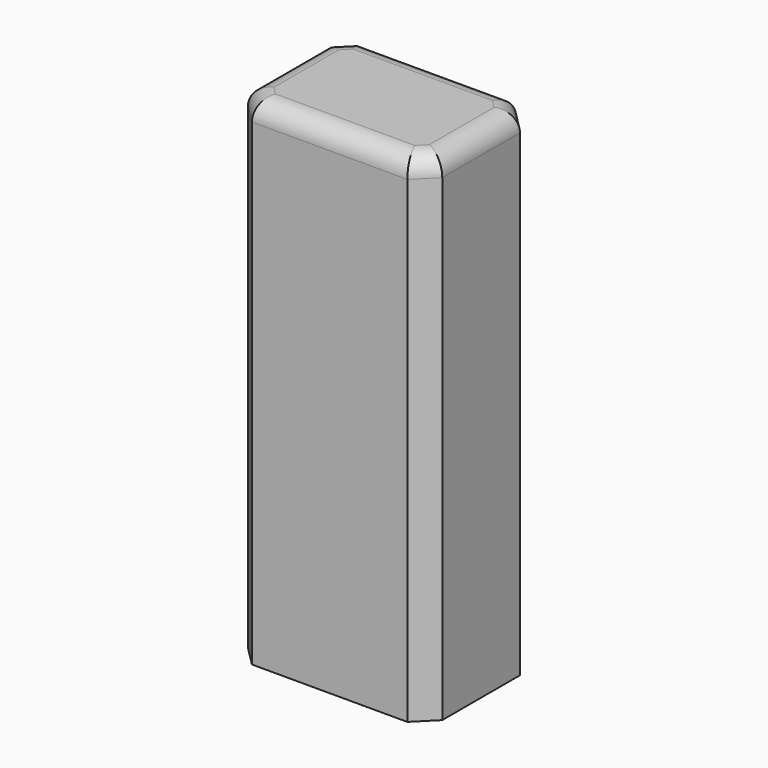
from build123d import *

# Parameters (mm, degrees)
F0_W     = 50
F0_H     = 127.9575609275
F1_DEPTH = 10
F2_R     = 3
F3_DEPTH = 8
F4_DEPTH = 25
F5_SIZE  = 5
F6_SIZE  = 5
F7_SIZE  = 5
F8_SIZE  = 5
F9_R     = 5


with BuildPart() as f1:
    # F0 (on Front) → F1 (new body)
    with BuildSketch(Plane.XZ):
        with Locations((0, 26.0212195362)):
            Rectangle(F0_W, F0_H)
    extrude(amount=F1_DEPTH)

    # F2 (on face) → F3 (cut)
    with BuildSketch(Plane(origin=(0, 0, 0), x_dir=(-1, 0, 0), z_dir=(0, 1, 0))):
        Circle(F2_R)
    extrude(amount=-F3_DEPTH, mode=Mode.SUBTRACT)

    # F4 (add): a face of the model
    f4_faces = [f1.faces().sort_by_distance(p)[0] for p in [
        (0, -10, 26.0212195362),
    ]]
    extrude(f4_faces, amount=F4_DEPTH)

    # F5
    f5_edges = [f1.edges().sort_by_distance(p)[0] for p in [
        (25, 0, 26.02122),
    ]]
    chamfer(f5_edges, length=F5_SIZE)

    # F6
    f6_edges = [f1.edges().sort_by_distance(p)[0] for p in [
        (-25, 0, 26.02122),
    ]]
    chamfer(f6_edges, length=F6_SIZE)

    # F7
    f7_edges = [f1.edges().sort_by_distance(p)[0] for p in [
        (-25, -35, 26.02122),
    ]]
    chamfer(f7_edges, length=F7_SIZE)

    # F8
    f8_edges = [f1.edges().sort_by_distance(p)[0] for p in [
        (25, -35, 26.02122),
    ]]
    chamfer(f8_edges, length=F8_SIZE)

    # F9
    f9_edges = [f1.edges().sort_by_distance(p)[0] for p in [
        (0, -35, 90),
        (22.5, -32.5, 90),
        (-22.5, -32.5, 90),
        (25, -17.5, 90),
        (-25, -17.5, 90),
        (22.5, -2.5, 90),
        (-22.5, -2.5, 90),
        (0, 0, 90),
    ]]
    fillet(f9_edges, radius=F9_R)


solid = f1.part
